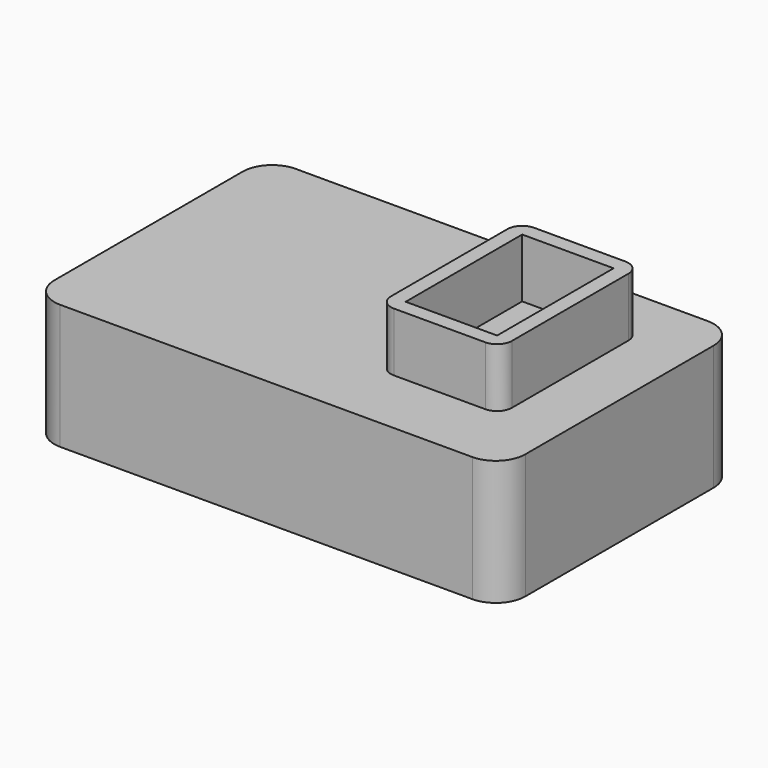
from build123d import *

# Parameters (mm, degrees)
F1_DEPTH = 8.5
F2_W     = 6.211563
F2_H     = 9.89439
F3_DEPTH = 4


with BuildPart() as f1:
    # F0 (on Top) → F1 (new body)
    with BuildSketch(Plane.XY):
        with BuildLine():
            ThreePointArc((16, 7.330357), (15.414214, 8.744571), (14, 9.330357))
            Line((14, 9.330357), (-14, 9.330357))
            ThreePointArc((-14, 9.330357), (-15.414214, 8.744571), (-16, 7.330357))
            Line((-16, 7.330357), (-16, -8.669643))
            ThreePointArc((-16, -8.669643), (-15.414214, -10.083856), (-14, -10.669643))
            Line((-14, -10.669643), (14, -10.669643))
            ThreePointArc((14, -10.669643), (15.414214, -10.083856), (16, -8.669643))
            Line((16, -8.669643), (16, 7.330357))
        make_face()
    extrude(amount=F1_DEPTH)

    # F2 (on face) → F3 (join)
    with BuildSketch(Plane.XY.offset(8.5)):
        with BuildLine():
            ThreePointArc((12.106783, 4.947195), (11.81389, 5.654302), (11.106783, 5.947195))
            Line((11.106783, 5.947195), (4.89522, 5.947195))
            ThreePointArc((4.89522, 5.947195), (4.188114, 5.654302), (3.89522, 4.947195))
            Line((3.89522, 4.947195), (3.89522, -4.947195))
            ThreePointArc((3.89522, -4.947195), (4.188114, -5.654302), (4.89522, -5.947195))
            Line((4.89522, -5.947195), (11.106783, -5.947195))
            ThreePointArc((11.106783, -5.947195), (11.81389, -5.654302), (12.106783, -4.947195))
            Line((12.106783, -4.947195), (12.106783, 4.947195))
        make_face()
        with Locations((8.001002, 0)):
            Rectangle(F2_W, F2_H, mode=Mode.SUBTRACT)
    extrude(amount=F3_DEPTH)


solid = f1.part
